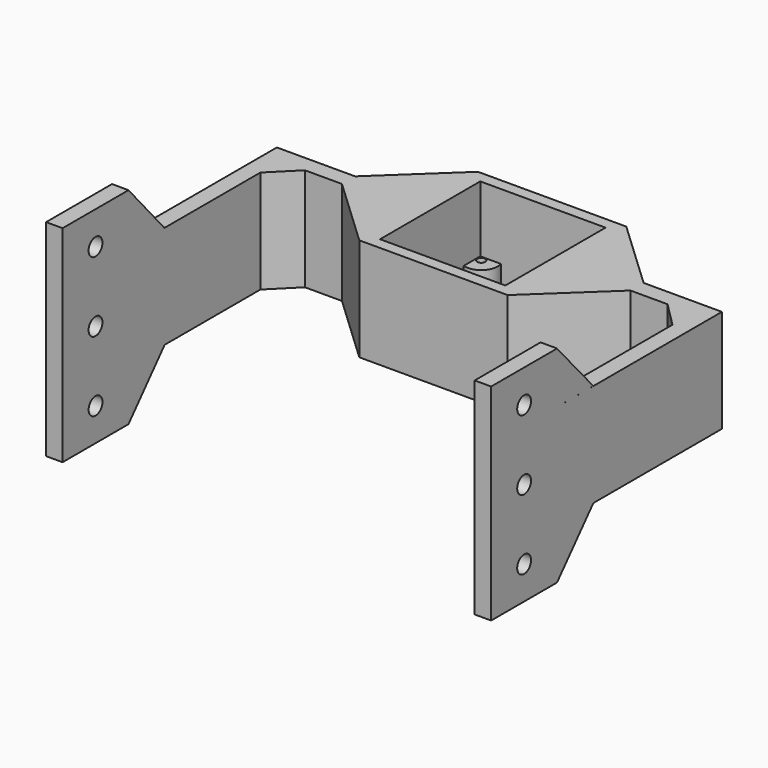
from build123d import *

# Parameters (mm, degrees)
SKETCH_W        = 36
SKETCH_H        = 36
PAD_DEPTH       = 25
SKETCH001_W     = 30.4
SKETCH001_H     = 30.4
POCKET_DEPTH    = 22
SKETCH002_R     = 4
PAD001_DEPTH    = 6
SKETCH003_R     = 1
POCKET001_DEPTH = 6
SKETCH004_W     = 4
SKETCH004_H     = 25
PAD002_DEPTH    = 32
SKETCH005_W     = 4
SKETCH005_H     = 25
PAD003_DEPTH    = 32
SKETCH006_W     = 70
SKETCH006_H     = 25
PAD004_DEPTH    = 4
SKETCH007_W     = 70
SKETCH007_H     = 25
PAD005_DEPTH    = 4
PAD006_DEPTH    = 25
PAD007_DEPTH    = 25
SKETCH010_W     = 20
SKETCH010_H     = 50
PAD008_DEPTH    = 4
SKETCH011_W     = 20
SKETCH011_H     = 50
PAD009_DEPTH    = 4
SKETCH012_R     = 2.1
POCKET002_DEPTH = 120
PAD010_DEPTH    = 4
PAD011_DEPTH    = 4


with BuildPart() as part:
    # Sketch → Pad (new body)
    with BuildSketch(Plane.XY):
        Rectangle(SKETCH_W, SKETCH_H)
    extrude(amount=PAD_DEPTH)

    # Sketch001 (on Face6 of Pad) → Pocket (cut)
    with BuildSketch(Plane.XY.offset(25)):
        Rectangle(SKETCH001_W, SKETCH001_H)
    extrude(amount=-POCKET_DEPTH, mode=Mode.SUBTRACT)

    # Sketch002 (on Face11 of Pocket) → Pad001 (join)
    with BuildSketch(Plane.XY.offset(3)):
        with Locations((-14, 14)):
            Circle(SKETCH002_R)
        with Locations((14, 14)):
            Circle(SKETCH002_R)
        with Locations((14, -14)):
            Circle(SKETCH002_R)
        with Locations((-14, -14)):
            Circle(SKETCH002_R)
    extrude(amount=PAD001_DEPTH)

    # Sketch003 (on DatumPlane) → Pocket001 (cut)
    with BuildSketch(Plane.XY.offset(9)):
        with Locations((-14, -14)):
            Circle(SKETCH003_R)
        with Locations((14, -14)):
            Circle(SKETCH003_R)
        with Locations((14, 14)):
            Circle(SKETCH003_R)
        with Locations((-14, 14)):
            Circle(SKETCH003_R)
    extrude(amount=-POCKET001_DEPTH, mode=Mode.SUBTRACT)

    # Sketch004 (on DatumPlane) → Pad002 (join)
    with BuildSketch(Plane.YZ.offset(18)):
        with Locations((0, 12.5)):
            Rectangle(SKETCH004_W, SKETCH004_H)
    extrude(amount=PAD002_DEPTH)

    # Sketch005 (on DatumPlane) → Pad003 (join)
    with BuildSketch(Plane(origin=(-18, 0, 0), x_dir=(0, -1, 0), z_dir=(-1, 0, 0))):
        with Locations((0, 12.5)):
            Rectangle(SKETCH005_W, SKETCH005_H)
    extrude(amount=PAD003_DEPTH)

    # Sketch006 (on DatumPlane) → Pad004 (join)
    with BuildSketch(Plane(origin=(-50, 0, 0), x_dir=(0, -1, 0), z_dir=(-1, 0, 0))):
        with Locations((33, 12.5)):
            Rectangle(SKETCH006_W, SKETCH006_H)
    extrude(amount=PAD004_DEPTH)

    # Sketch007 (on DatumPlane) → Pad005 (join)
    with BuildSketch(Plane.YZ.offset(50)):
        with Locations((-33, 12.5)):
            Rectangle(SKETCH007_W, SKETCH007_H)
    extrude(amount=PAD005_DEPTH)

    # Sketch008 (on DatumPlane) → Pad006 (join)
    with BuildSketch(Plane(origin=(0, 0, 0), x_dir=(1, 0, 0), z_dir=(0, 0, -1))):
        Polygon((18, 18), (18, 2), (35, 2), align=None)
        Polygon((18, -2), (18, -18), (35, -2), align=None)
        Polygon((-18, -18), (-18, -2), (-35, -2), align=None)
        Polygon((-18, 2), (-18, 18), (-35, 2), align=None)
    extrude(amount=-PAD006_DEPTH)

    # Sketch009 (on DatumPlane) → Pad007 (join)
    with BuildSketch(Plane(origin=(0, 0, 0), x_dir=(1, 0, 0), z_dir=(0, 0, -1))):
        Polygon((50, 2), (50, 8), (44, 2), align=None)
        Polygon((-50, 2), (-44, 2), (-50, 8), align=None)
    extrude(amount=-PAD007_DEPTH)

    # Sketch010 (on DatumPlane) → Pad008 (join)
    with BuildSketch(Plane.YZ.offset(54)):
        with Locations((-58, 12.5)):
            Rectangle(SKETCH010_W, SKETCH010_H)
    extrude(amount=-PAD008_DEPTH)

    # Sketch011 (on DatumPlane) → Pad009 (join)
    with BuildSketch(Plane(origin=(-54, 0, 0), x_dir=(0, -1, 0), z_dir=(-1, 0, 0))):
        with Locations((58, 12.5)):
            Rectangle(SKETCH011_W, SKETCH011_H)
    extrude(amount=-PAD009_DEPTH)

    # Sketch012 (on DatumPlane) → Pocket002 (cut)
    with BuildSketch(Plane.YZ.offset(54)):
        with Locations((-58, 29.488935)):
            Circle(SKETCH012_R)
        with Locations((-58, 12.488935)):
            Circle(SKETCH012_R)
        with Locations((-58.000031, -4.511065)):
            Circle(SKETCH012_R)
    extrude(amount=-POCKET002_DEPTH, mode=Mode.SUBTRACT)

    # Sketch013 (on DatumPlane) → Pad010 (join)
    with BuildSketch(Plane.YZ.offset(54)):
        Polygon((-48, 25.003424), (-48, 37.443424), (-37, 25.003424), align=None)
        Polygon((-48, 0), (-48, -12.489775), (-37, 0), align=None)
    extrude(amount=-PAD010_DEPTH)

    # Sketch014 (on DatumPlane) → Pad011 (join)
    with BuildSketch(Plane.YZ.offset(-50)):
        Polygon((-47.989925, 24.913122), (-47.989925, 37.485035), (-37.0298, 24.913122), align=None)
        Polygon((-47.989925, -12.480257), (-47.989925, 0), (-37.0298, 0), align=None)
    extrude(amount=-PAD011_DEPTH)


solid = part.part
